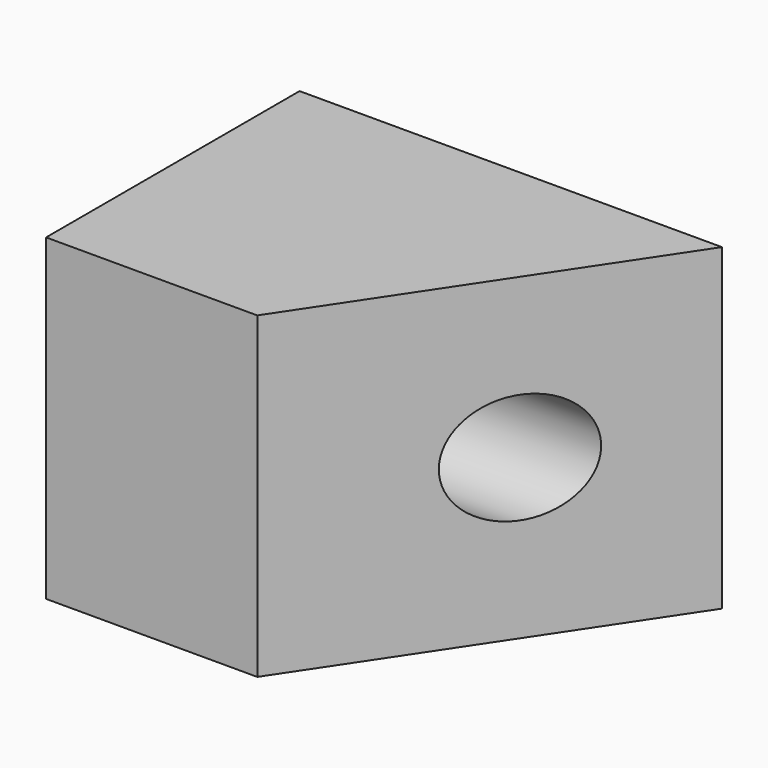
from build123d import *

# Parameters (mm, degrees)
F0_W     = 135.431692
F0_H     = 102.052846
F1_DEPTH = 101.6
F3_DEPTH = 102.053845
F4_R     = 17.753754
F5_DEPTH = 135.432692


with BuildPart() as f1:
    # F0 (on Front) → F1 (new body)
    with BuildSketch(Plane.XZ):
        Rectangle(F0_W, F0_H)
    extrude(amount=F1_DEPTH)

    # F2 (on face) → F3 (cut, through all)
    with BuildSketch(Plane(origin=(0, 0, -51.026423), x_dir=(1, 0, 0), z_dir=(0, 0, -1))):
        Polygon((67.715846, 0), (67.715846, 101.6), (0, 101.6), align=None)
    extrude(amount=-F3_DEPTH, mode=Mode.SUBTRACT)

    # F4 (on face) → F5 (cut, through all)
    with BuildSketch(Plane(origin=(-67.715846, 0, 0), x_dir=(0, -1, 0), z_dir=(-1, 0, 0))):
        with Locations((44.151351, 0)):
            Circle(F4_R)
    extrude(amount=-F5_DEPTH, mode=Mode.SUBTRACT)


solid = f1.part
